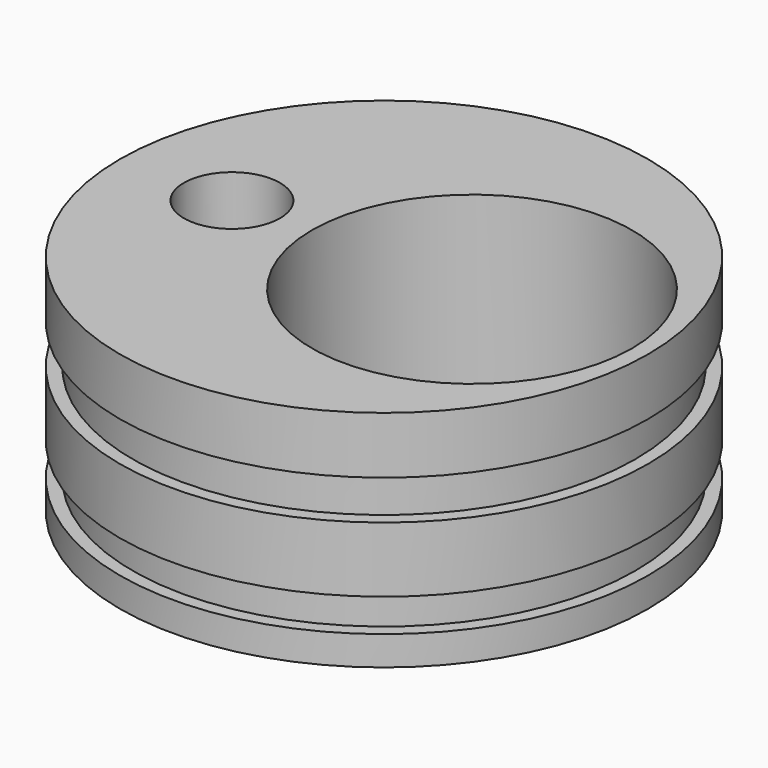
from build123d import *

# Parameters (mm, degrees)
F2_R     = 5
F2_R_2   = 1.5
F3_DEPTH = 7.001
F4_D     = 2.5
F4_DEPTH = 3.2
F4_TIP   = 0.7510757738
F2_R_3   = 1.2
F5_DEPTH = 3.2


with BuildPart() as f1:
    # F0 (on Front) → F1 (revolve)
    with BuildSketch(Plane.XZ):
        Polygon((8.25, 7), (0, 7), (0, 0), (8.25, 0), (8.25, 0.9163741209), (7.85, 0.9163741209), (7.85, 1.9445925065), (8.25, 1.9445925065), (8.25, 3.9838924357), (7.85, 3.9838924357), (7.85, 5.2177544985), (8.25, 5.2177544985), align=None)
    revolve(axis=Axis((0, 0, 3.5), (0, 0, 1)))

    # F2 (on Top) → F3 (cut, through all)
    with BuildSketch(Plane.XY):
        with Locations((2.75, 0)):
            Circle(F2_R)
        with Locations((-4.75, 0)):
            Circle(F2_R_2)
    extrude(amount=F3_DEPTH, mode=Mode.SUBTRACT)

    # F4
    with Locations(Plane(origin=(0, 0, 0), x_dir=(1, 0, 0), z_dir=(0, 0, -1))):
        with Locations((0, 5.75), (0, -5.75)):
            Hole(F4_D / 2, depth=F4_DEPTH)
            with Locations((0, 0, -(F4_DEPTH + F4_TIP / 2))):  # 118° drill point
                Cone(0, F4_D / 2, F4_TIP, mode=Mode.SUBTRACT)

    # F2 (on Top) → F5 (cut)
    with BuildSketch(Plane.XY):
        with Locations((0, 5.75)):
            Circle(F2_R_3)
        with Locations((0, -5.75)):
            Circle(F2_R_3)
    extrude(amount=F5_DEPTH, mode=Mode.SUBTRACT)


solid = f1.part
